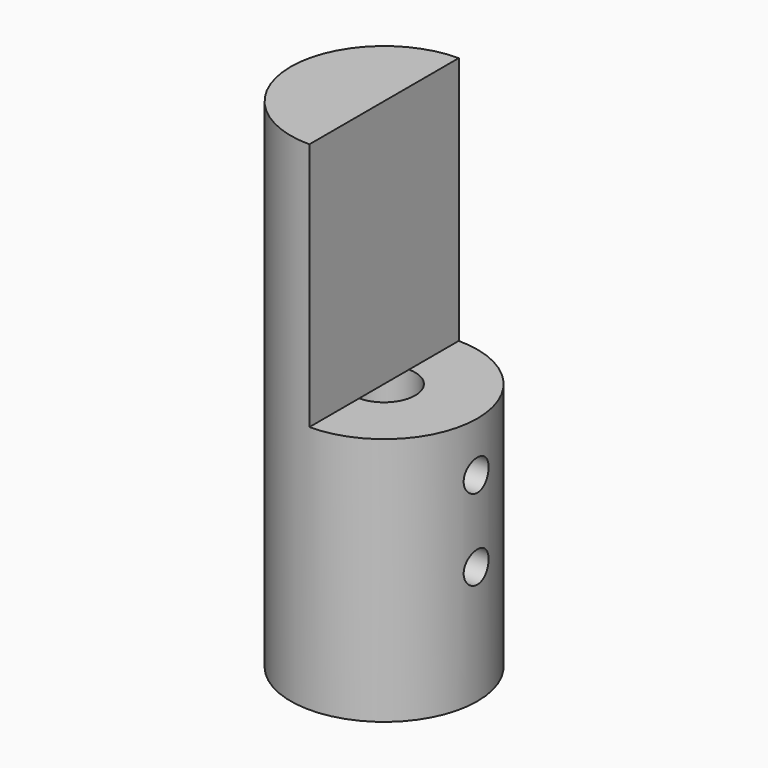
from build123d import *

# Parameters (mm, degrees)
F0_R     = 7.5
F1_DEPTH = 40
F2_W     = 31.443845
F2_H     = 29.544295
F3_DEPTH = 20
F4_R     = 2.5
F5_DEPTH = 20
F6_R     = 1.25
F7_DEPTH = 15


with BuildPart() as f1:
    # F0 (on Top) → F1 (new body)
    with BuildSketch(Plane.XY):
        Circle(F0_R)
    extrude(amount=F1_DEPTH)

    # F2 (on face) → F3 (cut)
    with BuildSketch(Plane.XY.offset(40)):
        with Locations((15.721922, -7.272147)):
            Rectangle(F2_W, F2_H)
    extrude(amount=-F3_DEPTH, mode=Mode.SUBTRACT)

    # F4 (on face) → F5 (cut)
    with BuildSketch(Plane(origin=(0, 0, 0), x_dir=(1, 0, 0), z_dir=(0, 0, -1))):
        Circle(F4_R)
    extrude(amount=-F5_DEPTH, mode=Mode.SUBTRACT)

    # F6 (on face) → F7 (cut)
    with BuildSketch(Plane.YZ):
        with Locations((0, 16)):
            Circle(F6_R)
        with Locations((0, 9.5)):
            Circle(F6_R)
    extrude(amount=F7_DEPTH, mode=Mode.SUBTRACT)


solid = f1.part
